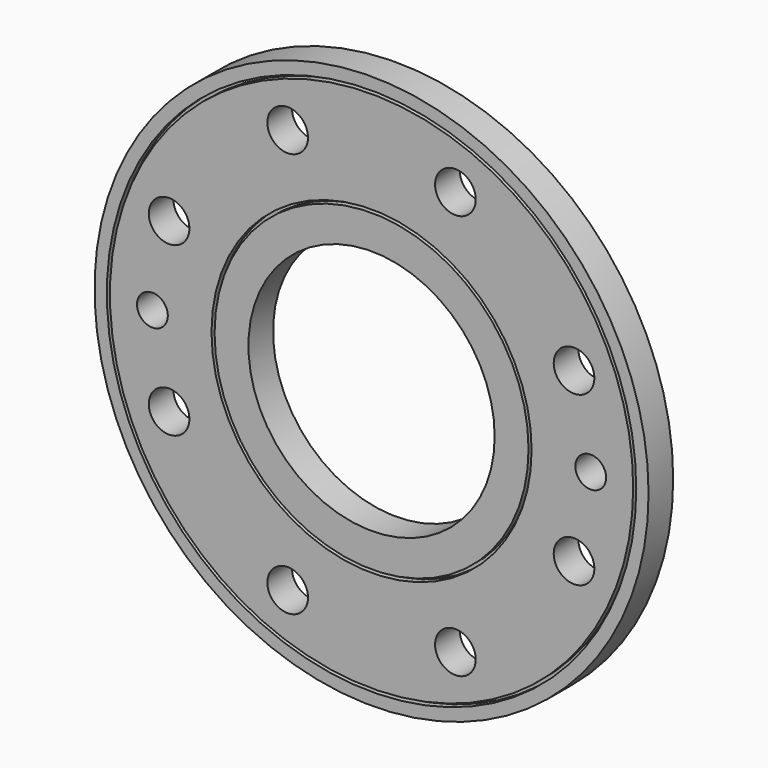
from build123d import *

# Parameters (mm, degrees)
F0_R     = 22.5
F0_R_2   = 10
F1_DEPTH = 2.5
F2_D     = 3.3
F3_D     = 2.5
F4_R     = 21.5
F4_R_2   = 21.25
F4_R_3   = 13
F4_R_4   = 12.75
F5_DEPTH = 0.5
F6_R     = 21.5
F6_R_2   = 21.25
F6_R_3   = 13
F6_R_4   = 12.75
F7_DEPTH = 0.5


with BuildPart() as f1:
    # F0 (on Front) → F1 (new body)
    with BuildSketch(Plane.XZ):
        Circle(F0_R)
        Circle(F0_R_2, mode=Mode.SUBTRACT)
    extrude(amount=F1_DEPTH)

    # F2 (through all)
    with Locations(Plane(origin=(0, 0, 0), x_dir=(1, 0, 0), z_dir=(0, 1, 0))):
        with Locations((-16.4450556787, -6.8117650961), (-6.8117650961, -16.4450556787), (6.8117650961, -16.4450556787), (16.4450556787, -6.8117650961), (16.4450556787, 6.8117650961), (6.8117650961, 16.4450556787), (-6.8117650961, 16.4450556787), (-16.4450556787, 6.8117650961)):
            Hole(F2_D / 2)

    # F3 (through all)
    with Locations(Plane(origin=(0, 0, 0), x_dir=(1, 0, 0), z_dir=(0, 1, 0))):
        with Locations((-17.8, 0), (17.8, 0)):
            Hole(F3_D / 2)

    # F4 (on face) → F5 (cut)
    with BuildSketch(Plane.XZ.offset(2.5)):
        Circle(F4_R)
        Circle(F4_R_2, mode=Mode.SUBTRACT)
        Circle(F4_R_3)
        Circle(F4_R_4, mode=Mode.SUBTRACT)
    extrude(amount=-F5_DEPTH, mode=Mode.SUBTRACT)

    # F6 (on face) → F7 (cut)
    with BuildSketch(Plane.XZ):
        Circle(F6_R)
        Circle(F6_R_2, mode=Mode.SUBTRACT)
        Circle(F6_R_3)
        Circle(F6_R_4, mode=Mode.SUBTRACT)
    extrude(amount=F7_DEPTH, mode=Mode.SUBTRACT)


solid = f1.part
